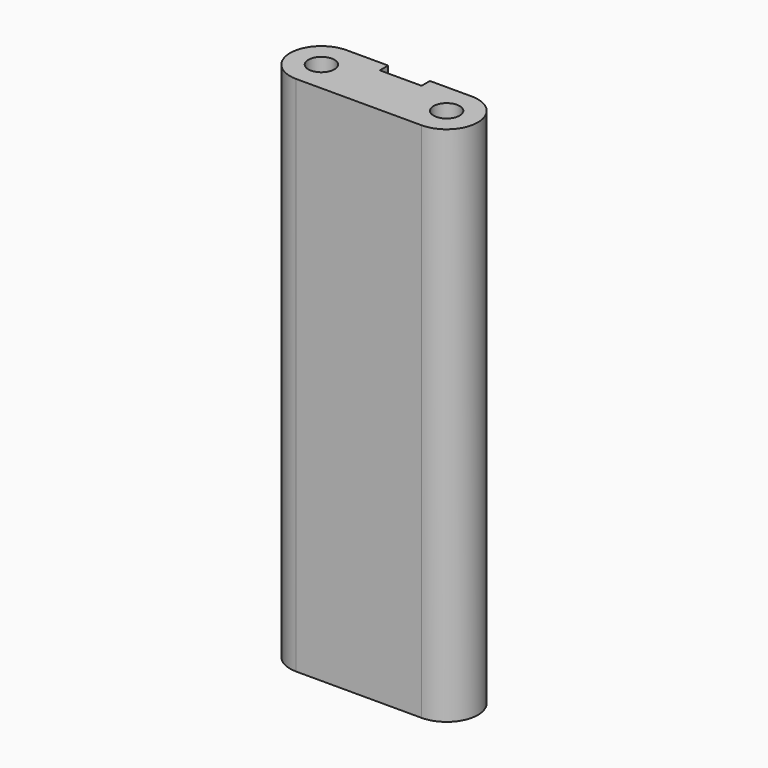
from build123d import *

# Parameters (mm, degrees)
F0_R     = 0.625
F1_DEPTH = 25


with BuildPart() as f1:
    # F0 (on Top) → F1 (new body)
    with BuildSketch(Plane.XY):
        with BuildLine():
            ThreePointArc((-46.354536, -12.51886), (-47.85452, -14.012057), (-46.368143, -15.518799))
            Line((-46.368143, -15.518799), (-40.368143, -15.518799))
            ThreePointArc((-40.368143, -15.518799), (-38.854551, -14.025664), (-40.354536, -12.51886))
            Line((-40.354536, -12.51886), (-42.354536, -12.51886))
            Line((-42.354536, -12.51886), (-42.354536, -13.01886))
            Line((-42.354536, -13.01886), (-44.354536, -13.01886))
            Line((-44.354536, -13.01886), (-44.354536, -12.51886))
            Line((-44.354536, -12.51886), (-46.354536, -12.51886))
        make_face()
        with Locations((-46.354536, -14.01886)):
            Circle(F0_R, mode=Mode.SUBTRACT)
        with Locations((-40.354536, -14.01886)):
            Circle(F0_R, mode=Mode.SUBTRACT)
    extrude(amount=F1_DEPTH)


solid = f1.part
